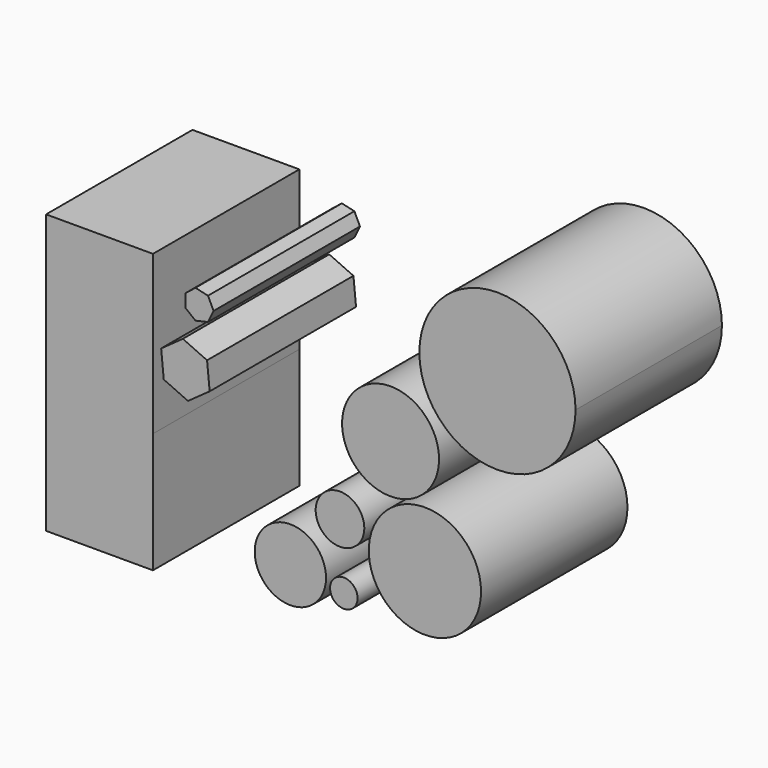
from build123d import *

# Parameters (mm, degrees)
F0_W     = 3.7090729456
F0_H     = 33.3816539496
F1_DEPTH = 50.8
F0_R     = 9.898740662
F0_R_2   = 13.4595762484
F0_R_3   = 15.5861238633
F0_R_4   = 6.7545111413
F0_R_5   = 3.82092803


with BuildPart() as f1:
    # F0 (on Front) → F1 (new body)
    with BuildSketch(Plane.XZ):
        Polygon((-30.864784494, 36.6933308542), (-60.5373680592, 36.6933308542), (-60.5373680592, 8.87528155), (-45.7010762766, 8.87528155), (-30.864784494, 8.87528155), align=None)
        with Locations((-32.7193209669, -23.976505734)):
            Rectangle(F0_W, F0_H)
        Polygon((-30.864784494, -7.2856787592), (-30.864784494, 0), (-38.2829303853, 0), (-38.2829303853, -7.2856787592), (-34.5738574397, -7.2856787592), align=None)
        Polygon((-45.7010762766, 8.87528155), (-60.5373680592, 8.87528155), (-60.5373680592, -40.6673327088), (-34.5738574397, -40.6673327088), (-34.5738574397, -7.2856787592), (-38.2829303853, -7.2856787592), (-38.2829303853, 0), (-45.7010762766, 0), align=None)
        Polygon((-30.864784494, 0), (-30.864784494, 8.87528155), (-45.7010762766, 8.87528155), (-45.7010762766, 0), (-38.2829303853, 0), align=None)
    extrude(amount=-F1_DEPTH)


with BuildPart() as f1b:
    # F0 (on Front) → F1, piece 2 (new body)
    with BuildSketch(Plane.XZ):
        with Locations((7.2856796905, -26.8907789141)):
            Circle(F0_R)
    extrude(amount=-F1_DEPTH)


with BuildPart() as f1c:
    # F0 (on Front) → F1, piece 3 (new body)
    with BuildSketch(Plane.XZ):
        Polygon((-27.8714858528, 6.9607391719), (-21.1412645344, 3.9015460993), (-15.1268149592, 8.2004921979), (-15.8425867025, 15.558631369), (-22.5728080209, 18.6178244416), (-28.5872575961, 14.3188783431), align=None)
    extrude(amount=-F1_DEPTH)


with BuildPart() as f1d:
    # F0 (on Front) → F1, piece 4 (new body)
    with BuildSketch(Plane.XZ):
        Polygon((-21.8570362777, 30.0016424943), (-21.8570362777, 26.4292523872), (-19.0640292243, 24.2019035872), (-15.5812063957, 24.9968351702), (-14.0312044184, 28.2154474407), (-15.5812063957, 31.4340597112), (-19.0640292243, 32.2289912943), align=None)
    extrude(amount=-F1_DEPTH)


with BuildPart() as f1e:
    # F0 (on Front) → F1, piece 5 (new body)
    with BuildSketch(Plane.XZ):
        with Locations((35.1037234068, 12.3194204643)):
            Circle(F0_R_2)
    extrude(amount=-F1_DEPTH)


with BuildPart() as f1f:
    # F0 (on Front) → F1, piece 6 (new body)
    with BuildSketch(Plane.XZ):
        with BuildLine():
            Line((64.7763088346, 36.6933308542), (43.0953982079, 36.6933308542))
            ThreePointArc((43.0953982079, 36.6933308542), (49.4455899082, 21.3626119278), (64.7763088346, 15.0124202276))
            Line((64.7763088346, 15.0124202276), (64.7763088346, 36.6933308542))
        make_face()
        with BuildLine():
            ThreePointArc((86.4572194612, 36.6933308542), (64.7763088346, 58.3742414808), (43.0953982079, 36.6933308542))
            Line((43.0953982079, 36.6933308542), (64.7763088346, 36.6933308542))
            Line((64.7763088346, 36.6933308542), (64.7763088346, 15.0124202276))
            ThreePointArc((64.7763088346, 15.0124202276), (80.1070277609, 21.3626119278), (86.4572194612, 36.6933308542))
        make_face()
    extrude(amount=-F1_DEPTH)


with BuildPart() as f1g:
    # F0 (on Front) → F1, piece 7 (new body)
    with BuildSketch(Plane.XZ):
        with Locations((44.6413420141, -16.2934269756)):
            Circle(F0_R_3)
    extrude(amount=-F1_DEPTH)


with BuildPart() as f1h:
    # F0 (on Front) → F1, piece 8 (new body)
    with BuildSketch(Plane.XZ):
        with Locations((21.0622344166, -11.2596852705)):
            Circle(F0_R_4)
    extrude(amount=-F1_DEPTH)


with BuildPart() as f1i:
    # F0 (on Front) → F1, piece 9 (new body)
    with BuildSketch(Plane.XZ):
        with Locations((22.1219714731, -29.0102474391)):
            Circle(F0_R_5)
    extrude(amount=-F1_DEPTH)


solid = Compound([f1.part, f1b.part, f1c.part, f1d.part, f1e.part, f1f.part, f1g.part, f1h.part, f1i.part])
